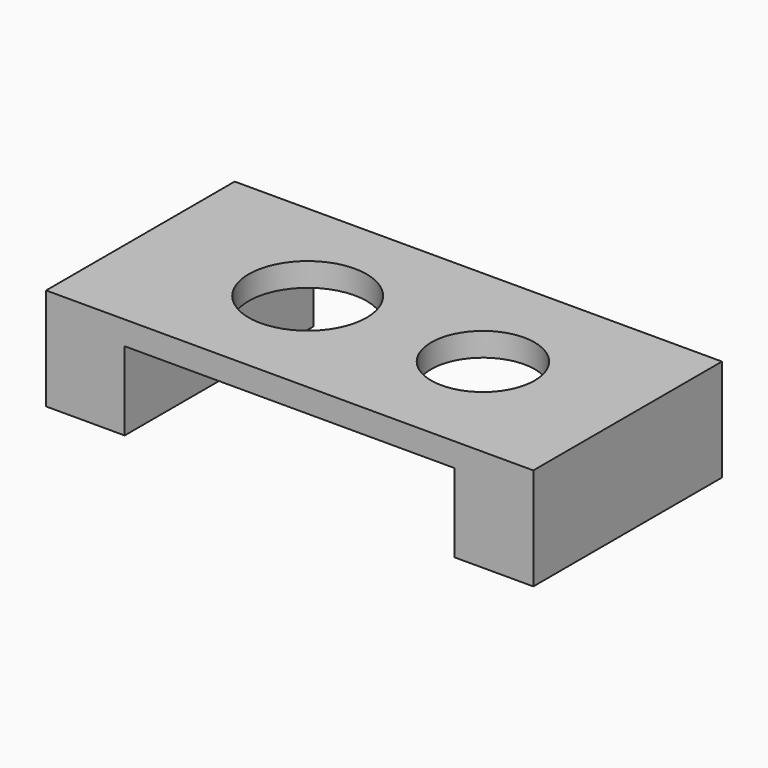
from build123d import *

# Parameters (mm, degrees)
F2_DEPTH = 30
F3_R     = 7.5
F3_R_2   = 6.580829
F4_DEPTH = 13.001


with BuildPart() as f2:
    # F0 (on Front) → F2 (new body)
    with BuildSketch(Plane.XZ):
        Polygon((62, 0), (0, 0), (0, -13), (10, -13), (10, -3), (52, -3), (52, -13), (62, -13), align=None)
    extrude(amount=F2_DEPTH)

    # F3 (on face) → F4 (cut, through all)
    with BuildSketch(Plane.XY):
        with Locations((21.034629, -14.681386)):
            Circle(F3_R)
        with Locations((43.447763, -14.825059)):
            Circle(F3_R_2)
    extrude(amount=-F4_DEPTH, mode=Mode.SUBTRACT)


solid = f2.part
